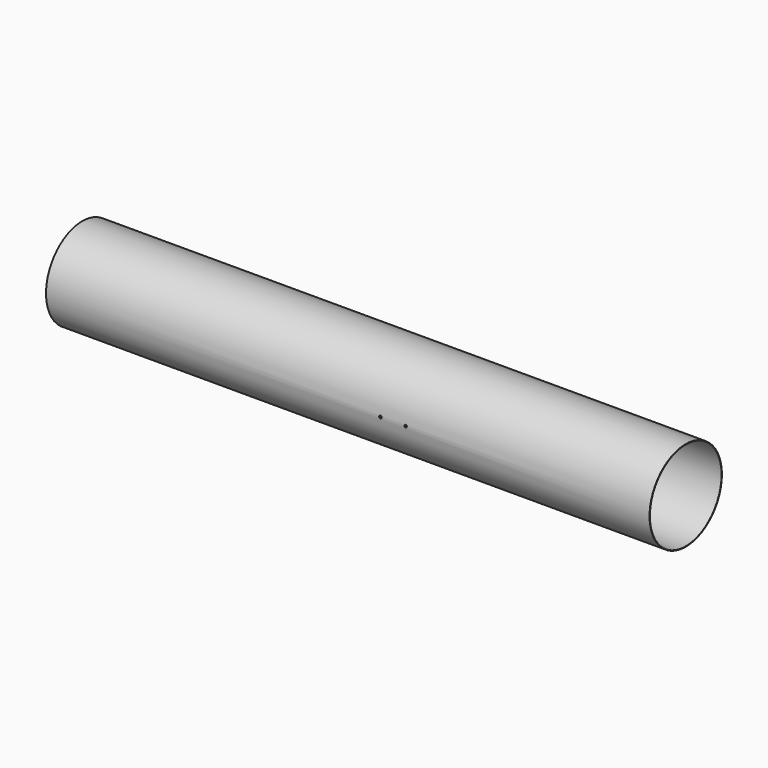
from build123d import *

# Parameters (mm, degrees)
F0_R     = 457.2
F0_R_2   = 452.4375
F1_DEPTH = 6096
F3_DEPTH = 998.22
F4_DEPTH = 508


with BuildPart() as f1:
    # F0 (on Right) → F1 (new body)
    with BuildSketch(Plane.YZ):
        Circle(F0_R)
        Circle(F0_R_2, mode=Mode.SUBTRACT)
    extrude(amount=F1_DEPTH)

    # F2 (on Front) → F3 (cut)
    with BuildSketch(Plane.XZ):
        with BuildLine():
            Line((3378.2, 0), (3365.5, 0))
            ThreePointArc((3365.5, 0), (3378.2, -12.7), (3390.9, 0))
            Line((3390.9, 0), (3378.2, 0))
        make_face()
        with BuildLine():
            ThreePointArc((3390.9, 0), (3378.2, 12.7), (3365.5, 0))
            Line((3365.5, 0), (3378.2, 0))
            Line((3378.2, 0), (3390.9, 0))
        make_face()
        with BuildLine():
            ThreePointArc((3644.9, 0), (3632.2, 12.7), (3619.5, 0))
            ThreePointArc((3619.5, 0), (3632.2, -12.7), (3644.9, 0))
        make_face()
    extrude(amount=F3_DEPTH, mode=Mode.SUBTRACT)

    # F2 (on Front) → F4 (cut)
    with BuildSketch(Plane.XZ):
        with BuildLine():
            ThreePointArc((3543.3, 0), (3530.6, 12.7), (3517.9, 0))
            Line((3517.9, 0), (3530.6, 0))
            Line((3530.6, 0), (3543.3, 0))
        make_face()
        with BuildLine():
            Line((3530.6, 0), (3517.9, 0))
            ThreePointArc((3517.9, 0), (3530.6, -12.7), (3543.3, 0))
            Line((3543.3, 0), (3530.6, 0))
        make_face()
    extrude(amount=-F4_DEPTH, mode=Mode.SUBTRACT)


solid = f1.part
